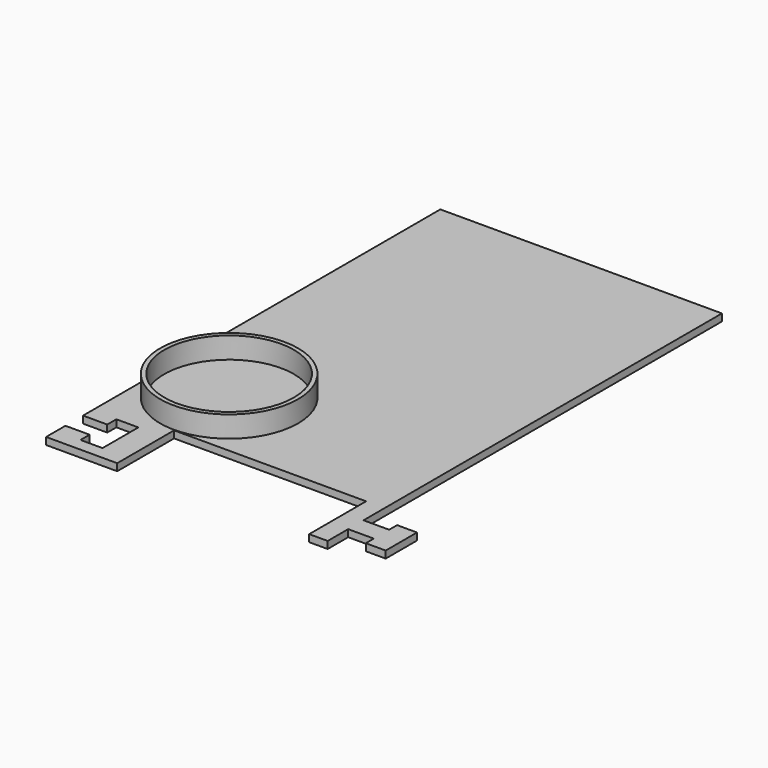
from build123d import *

# Parameters (mm, degrees)
PAD_DEPTH     = 1
SKETCH001_R   = 9.7
SKETCH001_R_2 = 9.1
PAD001_DEPTH  = 3


with BuildPart() as part:
    # Sketch → Pad (new body)
    with BuildSketch(Plane.XY):
        Polygon((10, 0.1), (10, -9.9), (0, -9.9), (0, -6.5), (3.4, -6.5), (3.4, -8.1), (6.5, -8.1), (6.5, -1.8), (3.4, -1.8), (3.4, -3.4), (0, -3.4), (0, 0), (0, 59.4), (39.6, 59.4), (39.6, 0), (39.6, -3.6), (43.2, -3.6), (43.2, -2.2), (46, -2.2), (46, -7.7), (43.2, -7.7), (43.2, -6.3), (39.6, -6.3), (39.6, -9.9), (37, -9.9), (37, 0.1), align=None)
    extrude(amount=-PAD_DEPTH)

    # Sketch001 → Pad001 (join)
    with BuildSketch(Plane.XY):
        with Locations((9.9, 9.9)):
            Circle(SKETCH001_R)
        with Locations((9.9, 9.9)):
            Circle(SKETCH001_R_2, mode=Mode.SUBTRACT)
    extrude(amount=PAD001_DEPTH)


solid = part.part
